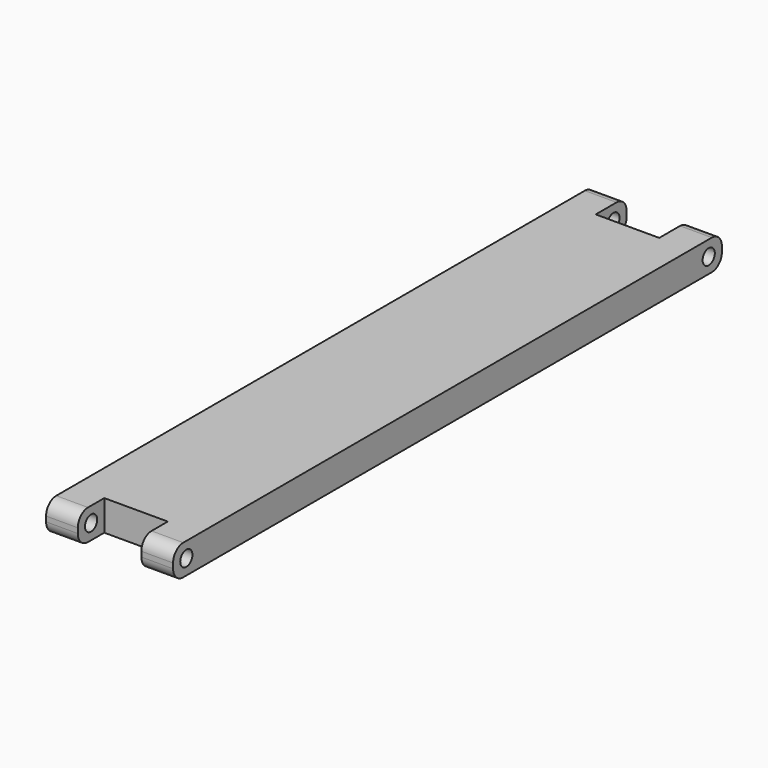
from build123d import *

# Parameters (mm, degrees)
F1_DEPTH = 12
F2_R     = 3
F3_DEPTH = 50.001
F4_R     = 5


with BuildPart() as f1:
    # F0 (on Top) → F1 (new body)
    with BuildSketch(Plane.XY):
        Polygon((-17.527781, 97.694382), (-30.027781, 97.694382), (-30.027781, -172.305618), (-17.527781, -172.305618), (-17.527781, -159.305618), (7.472219, -159.305618), (7.472219, -172.305618), (19.972219, -172.305618), (19.972219, 97.694382), (7.472219, 97.694382), (7.472219, 82.484039), (-17.527781, 82.484039), align=None)
    extrude(amount=F1_DEPTH)

    # F2 (on face) → F3 (cut, through all)
    with BuildSketch(Plane(origin=(-30.027781, 0, 0), x_dir=(0, -1, 0), z_dir=(-1, 0, 0))):
        with Locations((-91.194382, 6)):
            Circle(F2_R)
        with Locations((165.805618, 6)):
            Circle(F2_R)
    extrude(amount=-F3_DEPTH, mode=Mode.SUBTRACT)

    # F4
    f4_edges = [f1.edges().sort_by_distance(p)[0] for p in [
        (-23.777781, 97.694382, 12),
        (-23.777781, 97.694382, 0),
        (13.722219, 97.694382, 12),
        (13.722219, 97.694382, 0),
        (-23.777781, -172.305618, 12),
        (13.722219, -172.305618, 12),
        (-23.777781, -172.305618, 0),
        (13.722219, -172.305618, 0),
    ]]
    fillet(f4_edges, radius=F4_R)


solid = f1.part
